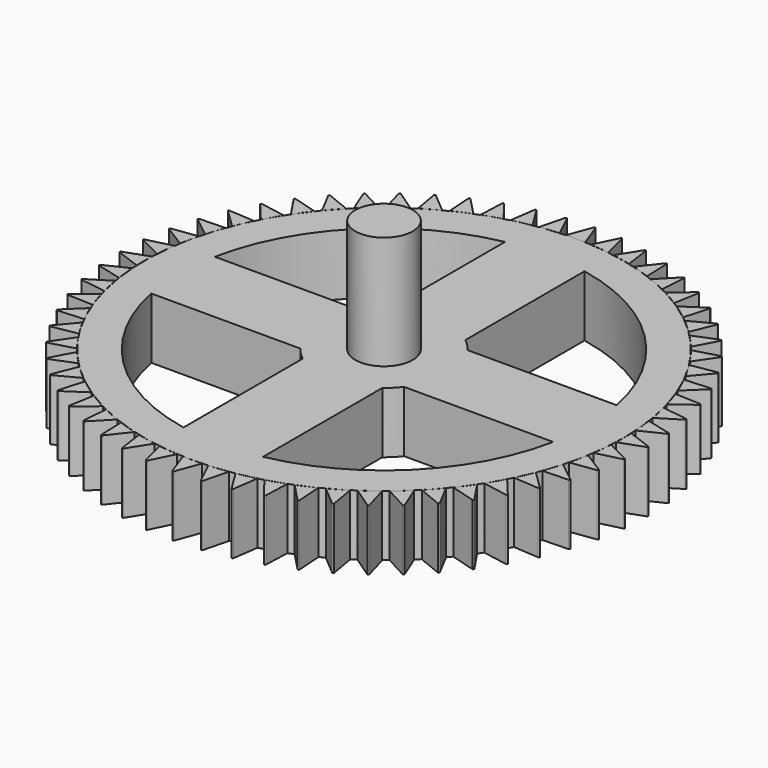
from build123d import *

# Parameters (mm, degrees)
F1_DEPTH = 7
F3_COUNT = 60
F4_DEPTH = 7
F6_DEPTH = 1
F7_R     = 3.3
F8_DEPTH = 13


with BuildPart() as f1:
    # F0 (on Top) → F1 (new body)
    with BuildSketch(Plane.XY):
        with BuildLine():
            ThreePointArc((-1.11054, 27.477567), (-0.010615, 27.499998), (1.089328, 27.478416))
            Line((1.089328, 27.478416), (0.09318, 30.241536))
            ThreePointArc((0.09318, 30.241536), (-0.000588, 30.30762), (-0.094757, 30.24211))
            Line((-0.094757, 30.24211), (-1.11054, 27.477567))
        make_face()
    extrude(amount=F1_DEPTH)


with BuildPart() as f3_1:
    # F3: instance of F1
    add(f1.part.rotate(Axis((0, 0, 14.330024), (0, 0, 1)), 1 * 360 / F3_COUNT))


with BuildPart() as f3_2:
    # F3: instance of F1
    add(f1.part.rotate(Axis((0, 0, 14.330024), (0, 0, 1)), 2 * 360 / F3_COUNT))


with BuildPart() as f3_3:
    # F3: instance of F1
    add(f1.part.rotate(Axis((0, 0, 14.330024), (0, 0, 1)), 3 * 360 / F3_COUNT))


with BuildPart() as f3_4:
    # F3: instance of F1
    add(f1.part.rotate(Axis((0, 0, 14.330024), (0, 0, 1)), 4 * 360 / F3_COUNT))


with BuildPart() as f3_5:
    # F3: instance of F1
    add(f1.part.rotate(Axis((0, 0, 14.330024), (0, 0, 1)), 5 * 360 / F3_COUNT))


with BuildPart() as f3_6:
    # F3: instance of F1
    add(f1.part.rotate(Axis((0, 0, 14.330024), (0, 0, 1)), 6 * 360 / F3_COUNT))


with BuildPart() as f3_7:
    # F3: instance of F1
    add(f1.part.rotate(Axis((0, 0, 14.330024), (0, 0, 1)), 7 * 360 / F3_COUNT))


with BuildPart() as f3_8:
    # F3: instance of F1
    add(f1.part.rotate(Axis((0, 0, 14.330024), (0, 0, 1)), 8 * 360 / F3_COUNT))


with BuildPart() as f3_9:
    # F3: instance of F1
    add(f1.part.rotate(Axis((0, 0, 14.330024), (0, 0, 1)), 9 * 360 / F3_COUNT))


with BuildPart() as f3_10:
    # F3: instance of F1
    add(f1.part.rotate(Axis((0, 0, 14.330024), (0, 0, 1)), 10 * 360 / F3_COUNT))


with BuildPart() as f3_11:
    # F3: instance of F1
    add(f1.part.rotate(Axis((0, 0, 14.330024), (0, 0, 1)), 11 * 360 / F3_COUNT))


with BuildPart() as f3_12:
    # F3: instance of F1
    add(f1.part.rotate(Axis((0, 0, 14.330024), (0, 0, 1)), 12 * 360 / F3_COUNT))


with BuildPart() as f3_13:
    # F3: instance of F1
    add(f1.part.rotate(Axis((0, 0, 14.330024), (0, 0, 1)), 13 * 360 / F3_COUNT))


with BuildPart() as f3_14:
    # F3: instance of F1
    add(f1.part.rotate(Axis((0, 0, 14.330024), (0, 0, 1)), 14 * 360 / F3_COUNT))


with BuildPart() as f3_15:
    # F3: instance of F1
    add(f1.part.rotate(Axis((0, 0, 14.330024), (0, 0, 1)), 15 * 360 / F3_COUNT))


with BuildPart() as f3_16:
    # F3: instance of F1
    add(f1.part.rotate(Axis((0, 0, 14.330024), (0, 0, 1)), 16 * 360 / F3_COUNT))


with BuildPart() as f3_17:
    # F3: instance of F1
    add(f1.part.rotate(Axis((0, 0, 14.330024), (0, 0, 1)), 17 * 360 / F3_COUNT))


with BuildPart() as f3_18:
    # F3: instance of F1
    add(f1.part.rotate(Axis((0, 0, 14.330024), (0, 0, 1)), 18 * 360 / F3_COUNT))


with BuildPart() as f3_19:
    # F3: instance of F1
    add(f1.part.rotate(Axis((0, 0, 14.330024), (0, 0, 1)), 19 * 360 / F3_COUNT))


with BuildPart() as f3_20:
    # F3: instance of F1
    add(f1.part.rotate(Axis((0, 0, 14.330024), (0, 0, 1)), 20 * 360 / F3_COUNT))


with BuildPart() as f3_21:
    # F3: instance of F1
    add(f1.part.rotate(Axis((0, 0, 14.330024), (0, 0, 1)), 21 * 360 / F3_COUNT))


with BuildPart() as f3_22:
    # F3: instance of F1
    add(f1.part.rotate(Axis((0, 0, 14.330024), (0, 0, 1)), 22 * 360 / F3_COUNT))


with BuildPart() as f3_23:
    # F3: instance of F1
    add(f1.part.rotate(Axis((0, 0, 14.330024), (0, 0, 1)), 23 * 360 / F3_COUNT))


with BuildPart() as f3_24:
    # F3: instance of F1
    add(f1.part.rotate(Axis((0, 0, 14.330024), (0, 0, 1)), 24 * 360 / F3_COUNT))


with BuildPart() as f3_25:
    # F3: instance of F1
    add(f1.part.rotate(Axis((0, 0, 14.330024), (0, 0, 1)), 25 * 360 / F3_COUNT))


with BuildPart() as f3_26:
    # F3: instance of F1
    add(f1.part.rotate(Axis((0, 0, 14.330024), (0, 0, 1)), 26 * 360 / F3_COUNT))


with BuildPart() as f3_27:
    # F3: instance of F1
    add(f1.part.rotate(Axis((0, 0, 14.330024), (0, 0, 1)), 27 * 360 / F3_COUNT))


with BuildPart() as f3_28:
    # F3: instance of F1
    add(f1.part.rotate(Axis((0, 0, 14.330024), (0, 0, 1)), 28 * 360 / F3_COUNT))


with BuildPart() as f3_29:
    # F3: instance of F1
    add(f1.part.rotate(Axis((0, 0, 14.330024), (0, 0, 1)), 29 * 360 / F3_COUNT))


with BuildPart() as f3_30:
    # F3: instance of F1
    add(f1.part.rotate(Axis((0, 0, 14.330024), (0, 0, 1)), 30 * 360 / F3_COUNT))


with BuildPart() as f3_31:
    # F3: instance of F1
    add(f1.part.rotate(Axis((0, 0, 14.330024), (0, 0, 1)), 31 * 360 / F3_COUNT))


with BuildPart() as f3_32:
    # F3: instance of F1
    add(f1.part.rotate(Axis((0, 0, 14.330024), (0, 0, 1)), 32 * 360 / F3_COUNT))


with BuildPart() as f3_33:
    # F3: instance of F1
    add(f1.part.rotate(Axis((0, 0, 14.330024), (0, 0, 1)), 33 * 360 / F3_COUNT))


with BuildPart() as f3_34:
    # F3: instance of F1
    add(f1.part.rotate(Axis((0, 0, 14.330024), (0, 0, 1)), 34 * 360 / F3_COUNT))


with BuildPart() as f3_35:
    # F3: instance of F1
    add(f1.part.rotate(Axis((0, 0, 14.330024), (0, 0, 1)), 35 * 360 / F3_COUNT))


with BuildPart() as f3_36:
    # F3: instance of F1
    add(f1.part.rotate(Axis((0, 0, 14.330024), (0, 0, 1)), 36 * 360 / F3_COUNT))


with BuildPart() as f3_37:
    # F3: instance of F1
    add(f1.part.rotate(Axis((0, 0, 14.330024), (0, 0, 1)), 37 * 360 / F3_COUNT))


with BuildPart() as f3_38:
    # F3: instance of F1
    add(f1.part.rotate(Axis((0, 0, 14.330024), (0, 0, 1)), 38 * 360 / F3_COUNT))


with BuildPart() as f3_39:
    # F3: instance of F1
    add(f1.part.rotate(Axis((0, 0, 14.330024), (0, 0, 1)), 39 * 360 / F3_COUNT))


with BuildPart() as f3_40:
    # F3: instance of F1
    add(f1.part.rotate(Axis((0, 0, 14.330024), (0, 0, 1)), 40 * 360 / F3_COUNT))


with BuildPart() as f3_41:
    # F3: instance of F1
    add(f1.part.rotate(Axis((0, 0, 14.330024), (0, 0, 1)), 41 * 360 / F3_COUNT))


with BuildPart() as f3_42:
    # F3: instance of F1
    add(f1.part.rotate(Axis((0, 0, 14.330024), (0, 0, 1)), 42 * 360 / F3_COUNT))


with BuildPart() as f3_43:
    # F3: instance of F1
    add(f1.part.rotate(Axis((0, 0, 14.330024), (0, 0, 1)), 43 * 360 / F3_COUNT))


with BuildPart() as f3_44:
    # F3: instance of F1
    add(f1.part.rotate(Axis((0, 0, 14.330024), (0, 0, 1)), 44 * 360 / F3_COUNT))


with BuildPart() as f3_45:
    # F3: instance of F1
    add(f1.part.rotate(Axis((0, 0, 14.330024), (0, 0, 1)), 45 * 360 / F3_COUNT))


with BuildPart() as f3_46:
    # F3: instance of F1
    add(f1.part.rotate(Axis((0, 0, 14.330024), (0, 0, 1)), 46 * 360 / F3_COUNT))


with BuildPart() as f3_47:
    # F3: instance of F1
    add(f1.part.rotate(Axis((0, 0, 14.330024), (0, 0, 1)), 47 * 360 / F3_COUNT))


with BuildPart() as f3_48:
    # F3: instance of F1
    add(f1.part.rotate(Axis((0, 0, 14.330024), (0, 0, 1)), 48 * 360 / F3_COUNT))


with BuildPart() as f3_49:
    # F3: instance of F1
    add(f1.part.rotate(Axis((0, 0, 14.330024), (0, 0, 1)), 49 * 360 / F3_COUNT))


with BuildPart() as f3_50:
    # F3: instance of F1
    add(f1.part.rotate(Axis((0, 0, 14.330024), (0, 0, 1)), 50 * 360 / F3_COUNT))


with BuildPart() as f3_51:
    # F3: instance of F1
    add(f1.part.rotate(Axis((0, 0, 14.330024), (0, 0, 1)), 51 * 360 / F3_COUNT))


with BuildPart() as f3_52:
    # F3: instance of F1
    add(f1.part.rotate(Axis((0, 0, 14.330024), (0, 0, 1)), 52 * 360 / F3_COUNT))


with BuildPart() as f3_53:
    # F3: instance of F1
    add(f1.part.rotate(Axis((0, 0, 14.330024), (0, 0, 1)), 53 * 360 / F3_COUNT))


with BuildPart() as f3_54:
    # F3: instance of F1
    add(f1.part.rotate(Axis((0, 0, 14.330024), (0, 0, 1)), 54 * 360 / F3_COUNT))


with BuildPart() as f3_55:
    # F3: instance of F1
    add(f1.part.rotate(Axis((0, 0, 14.330024), (0, 0, 1)), 55 * 360 / F3_COUNT))


with BuildPart() as f3_56:
    # F3: instance of F1
    add(f1.part.rotate(Axis((0, 0, 14.330024), (0, 0, 1)), 56 * 360 / F3_COUNT))


with BuildPart() as f3_57:
    # F3: instance of F1
    add(f1.part.rotate(Axis((0, 0, 14.330024), (0, 0, 1)), 57 * 360 / F3_COUNT))


with BuildPart() as f3_58:
    # F3: instance of F1
    add(f1.part.rotate(Axis((0, 0, 14.330024), (0, 0, 1)), 58 * 360 / F3_COUNT))


with BuildPart() as f3_59:
    # F3: instance of F1
    add(f1.part.rotate(Axis((0, 0, 14.330024), (0, 0, 1)), 59 * 360 / F3_COUNT))


with BuildPart() as f4:
    # F0 (on Top) → F4 (new body)
    with BuildSketch(Plane.XY):
        with BuildLine():
            ThreePointArc((-1.11054, 27.477567), (-19.048755, -19.834186), (27.5, 0))
            ThreePointArc((27.5, 0), (19.826832, 19.056409), (1.089328, 27.478416))
            ThreePointArc((1.089328, 27.478416), (-0.010615, 27.499998), (-1.11054, 27.477567))
        make_face()
        with BuildLine():
            ThreePointArc((4.562093, 23.052924), (16.617009, 16.617009), (23.052924, 4.562093))
            ThreePointArc((23.052924, 4.562093), (23.387964, 2.291974), (23.5, 0))
            ThreePointArc((23.5, 0), (23.387964, -2.291974), (23.052924, -4.562093))
            ThreePointArc((23.052924, -4.562093), (16.617009, -16.617009), (4.562093, -23.052924))
            ThreePointArc((4.562093, -23.052924), (0, -23.5), (-4.562093, -23.052924))
            ThreePointArc((-4.562093, -23.052924), (-16.617009, -16.617009), (-23.052924, -4.562093))
            ThreePointArc((-23.052924, -4.562093), (-23.5, 0), (-23.052924, 4.562093))
            ThreePointArc((-23.052924, 4.562093), (-16.617009, 16.617009), (-4.562093, 23.052924))
            ThreePointArc((-4.562093, 23.052924), (0, 23.5), (4.562093, 23.052924))
        make_face(mode=Mode.SUBTRACT)
        with BuildLine():
            ThreePointArc((-4.562093, 5.952924), (0, 7.5), (4.562093, 5.952924))
            Line((4.562093, 5.952924), (4.562093, 23.052924))
            ThreePointArc((4.562093, 23.052924), (0, 23.5), (-4.562093, 23.052924))
            Line((-4.562093, 23.052924), (-4.562093, 5.952924))
        make_face()
        with BuildLine():
            ThreePointArc((-5.952924, -4.562093), (-7.5, 0), (-5.952924, 4.562093))
            Line((-5.952924, 4.562093), (-23.052924, 4.562093))
            ThreePointArc((-23.052924, 4.562093), (-23.5, 0), (-23.052924, -4.562093))
            Line((-23.052924, -4.562093), (-5.952924, -4.562093))
        make_face()
        with BuildLine():
            Line((4.562093, -23.052924), (4.562093, -5.952924))
            ThreePointArc((4.562093, -5.952924), (0, -7.5), (-4.562093, -5.952924))
            Line((-4.562093, -5.952924), (-4.562093, -23.052924))
            ThreePointArc((-4.562093, -23.052924), (0, -23.5), (4.562093, -23.052924))
        make_face()
        with BuildLine():
            ThreePointArc((5.952924, 4.562093), (7.102708, 2.408638), (7.5, 0))
            ThreePointArc((7.5, 0), (7.102708, -2.408638), (5.952924, -4.562093))
            Line((5.952924, -4.562093), (23.052924, -4.562093))
            ThreePointArc((23.052924, -4.562093), (23.387964, -2.291974), (23.5, 0))
            ThreePointArc((23.5, 0), (23.387964, 2.291974), (23.052924, 4.562093))
            Line((23.052924, 4.562093), (5.952924, 4.562093))
        make_face()
        with BuildLine():
            ThreePointArc((5.952924, -4.562093), (7.102708, -2.408638), (7.5, 0))
            ThreePointArc((7.5, 0), (7.102708, 2.408638), (5.952924, 4.562093))
            ThreePointArc((5.952924, 4.562093), (5.303301, 5.303301), (4.562093, 5.952924))
            ThreePointArc((4.562093, 5.952924), (0, 7.5), (-4.562093, 5.952924))
            ThreePointArc((-4.562093, 5.952924), (-5.303301, 5.303301), (-5.952924, 4.562093))
            ThreePointArc((-5.952924, 4.562093), (-7.5, 0), (-5.952924, -4.562093))
            ThreePointArc((-5.952924, -4.562093), (-5.303301, -5.303301), (-4.562093, -5.952924))
            ThreePointArc((-4.562093, -5.952924), (0, -7.5), (4.562093, -5.952924))
            ThreePointArc((4.562093, -5.952924), (5.303301, -5.303301), (5.952924, -4.562093))
        make_face()
        with BuildLine():
            ThreePointArc((4, 3.36164), (4.909207, 1.788942), (5.225, 0))
            ThreePointArc((5.225, 0), (-1.788942, -4.909207), (-4, 3.36164))
            ThreePointArc((-4, 3.36164), (0, 5.225), (4, 3.36164))
        make_face(mode=Mode.SUBTRACT)
        with BuildLine():
            Line((-4, 3.36164), (4, 3.36164))
            ThreePointArc((4, 3.36164), (0, 5.225), (-4, 3.36164))
        make_face()
    extrude(amount=F4_DEPTH)

    # F5 (on face) → F6 (join)
    with BuildSketch(Plane.XY.offset(7)):
        with BuildLine():
            Line((4, 3.36164), (-4, 3.36164))
            ThreePointArc((-4, 3.36164), (0, -5.225), (4, 3.36164))
        make_face()
    extrude(amount=-F6_DEPTH)

    # F7 (on face) → F8 (join)
    with BuildSketch(Plane.XY.offset(7)):
        Circle(F7_R)
    extrude(amount=F8_DEPTH)


solid = Compound([f1.part, f3_1.part, f3_2.part, f3_3.part, f3_4.part, f3_5.part, f3_6.part, f3_7.part, f3_8.part, f3_9.part, f3_10.part, f3_11.part, f3_12.part, f3_13.part, f3_14.part, f3_15.part, f3_16.part, f3_17.part, f3_18.part, f3_19.part, f3_20.part, f3_21.part, f3_22.part, f3_23.part, f3_24.part, f3_25.part, f3_26.part, f3_27.part, f3_28.part, f3_29.part, f3_30.part, f3_31.part, f3_32.part, f3_33.part, f3_34.part, f3_35.part, f3_36.part, f3_37.part, f3_38.part, f3_39.part, f3_40.part, f3_41.part, f3_42.part, f3_43.part, f3_44.part, f3_45.part, f3_46.part, f3_47.part, f3_48.part, f3_49.part, f3_50.part, f3_51.part, f3_52.part, f3_53.part, f3_54.part, f3_55.part, f3_56.part, f3_57.part, f3_58.part, f3_59.part, f4.part])
